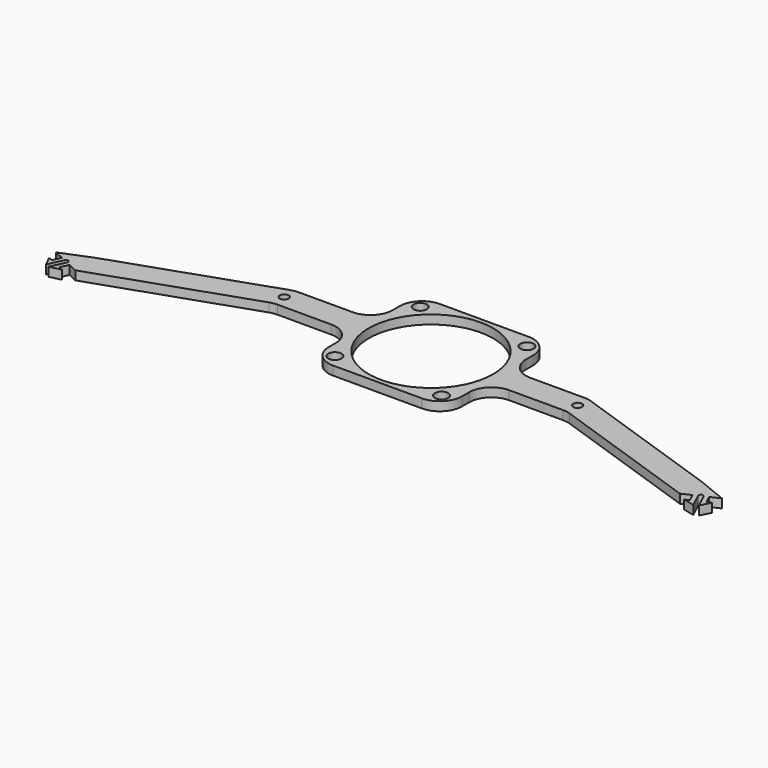
from build123d import *

# Parameters (mm, degrees)
F0_R     = 1.5
F0_R_2   = 1
F1_DEPTH = 2
F2_R     = 5


with BuildPart() as f1:
    # F0 (on Top) → F1 (new body)
    with BuildSketch(Plane.XY):
        with BuildLine():
            ThreePointArc((13.5, -12), (12, -10.5), (10.5, -12))
            ThreePointArc((10.5, -12), (12, -13.5), (13.5, -12))
        make_face()
        with BuildLine():
            Line((15, 3), (15, 15))
            Line((15, 15), (-15, 15))
            Line((-15, 15), (-15, 3))
            Line((-15, 3), (-33, 3))
            Line((-33, 3), (-68, -9))
            Line((-68, -9), (-74.892196, -11.786116))
            Line((-74.892196, -11.786116), (-72.80556, -12.759131))
            Line((-72.80556, -12.759131), (-73.650796, -14.571746))
            Line((-73.650796, -14.571746), (-74.581683, -14.137667))
            Line((-74.581683, -14.137667), (-73.422492, -16.448347))
            Line((-73.422492, -16.448347), (-71.899252, -13.181749))
            ThreePointArc((-71.899252, -13.181749), (-71.234789, -12.939904), (-70.992944, -13.604367))
            Line((-70.992944, -13.604367), (-72.516184, -16.870966))
            Line((-72.516184, -16.870966), (-70.000987, -16.27368))
            Line((-70.000987, -16.27368), (-70.931873, -15.839601))
            Line((-70.931873, -15.839601), (-70.086637, -14.026985))
            Line((-70.086637, -14.026985), (-68, -15))
            Line((-68, -15), (-33, -3))
            Line((-33, -3), (-15, -3))
            Line((-15, -3), (-15, -15))
            Line((-15, -15), (15, -15))
            Line((15, -15), (15, -3))
            Line((15, -3), (33, -3))
            Line((33, -3), (68, -15))
            Line((68, -15), (70.086637, -14.026985))
            Line((70.086637, -14.026985), (70.931873, -15.839601))
            Line((70.931873, -15.839601), (70.000987, -16.27368))
            Line((70.000987, -16.27368), (72.516184, -16.870966))
            Line((72.516184, -16.870966), (70.992944, -13.604367))
            ThreePointArc((70.992944, -13.604367), (71.234789, -12.939904), (71.899252, -13.181749))
            Line((71.899252, -13.181749), (73.422492, -16.448347))
            Line((73.422492, -16.448347), (74.581683, -14.137667))
            Line((74.581683, -14.137667), (73.650796, -14.571746))
            Line((73.650796, -14.571746), (72.80556, -12.759131))
            Line((72.80556, -12.759131), (74.892196, -11.786116))
            Line((74.892196, -11.786116), (68, -9))
            Line((68, -9), (33, 3))
            Line((33, 3), (15, 3))
        make_face()
        with Locations((-12, -12)):
            Circle(F0_R, mode=Mode.SUBTRACT)
        with BuildLine():
            ThreePointArc((13.5, -12), (12, -13.5), (10.5, -12))
            ThreePointArc((10.5, -12), (12, -10.5), (13.5, -12))
        make_face(mode=Mode.SUBTRACT)
        with Locations((-33, 0)):
            Circle(F0_R_2, mode=Mode.SUBTRACT)
        with Locations((-12, 12)):
            Circle(F0_R, mode=Mode.SUBTRACT)
        with BuildLine():
            ThreePointArc((14, 0), (12.185143, -6.893641), (7.211103, -12))
            ThreePointArc((7.211103, -12), (-12.185143, 6.893641), (14, 0))
        make_face(mode=Mode.SUBTRACT)
        with Locations((33, 0)):
            Circle(F0_R_2, mode=Mode.SUBTRACT)
        with Locations((12, 12)):
            Circle(F0_R, mode=Mode.SUBTRACT)
    extrude(amount=F1_DEPTH)

    # F2
    f2_edges = [f1.edges().sort_by_distance(p)[0] for p in [
        (33, -3, 1),
        (33, 3, 1),
        (15, 3, 1),
        (15, -3, 1),
        (15, -15, 1),
        (15, 15, 1),
        (-15, 15, 1),
        (-33, 3, 1),
        (-15, -15, 1),
        (-33, -3, 1),
        (-15, -3, 1),
        (-15, 3, 1),
    ]]
    fillet(f2_edges, radius=F2_R)


solid = f1.part
